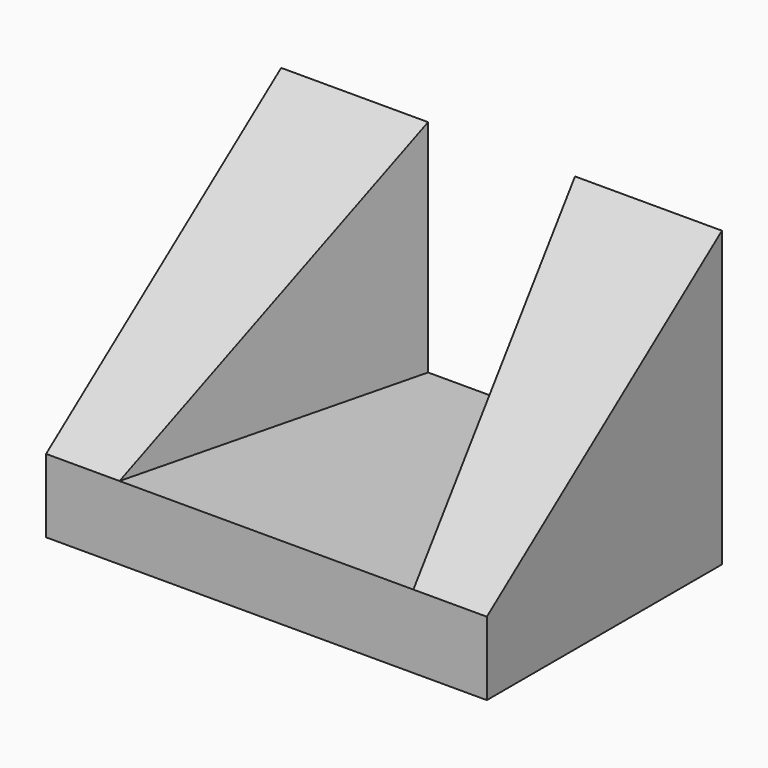
from build123d import *

# Parameters (mm, degrees)
SKETCH_W     = 30
SKETCH_H     = 40
PAD_DEPTH    = 10
PAD001_DEPTH = 30
POCKET_DEPTH = 30.001


with BuildPart() as part:
    # Sketch → Pad (new body)
    with BuildSketch(Plane.XY):
        with Locations((-15, 0)):
            Rectangle(SKETCH_W, SKETCH_H)
    extrude(amount=PAD_DEPTH)

    # Sketch001 (on Face6 of Pad) → Pad001 (join)
    with BuildSketch(Plane.XY.offset(10)):
        Polygon((-30, 20), (-30, -20), (-20, -20), (-10, 20), align=None)
    extrude(amount=PAD001_DEPTH)

    # Sketch002 (on Face7 of Pad001) → Pocket (cut, through all)
    with BuildSketch(Plane(origin=(-30, 0, 0), x_dir=(0, -1, 0), z_dir=(-1, 0, 0))):
        Polygon((-20, 40), (20, 40), (20, 10), align=None)
    extrude(amount=-POCKET_DEPTH, mode=Mode.SUBTRACT)

    # Mirrored: part across YZ


with BuildPart() as part_1:
    add(part.part)
    add(part.part.mirror(Plane.YZ))


solid = part_1.part
